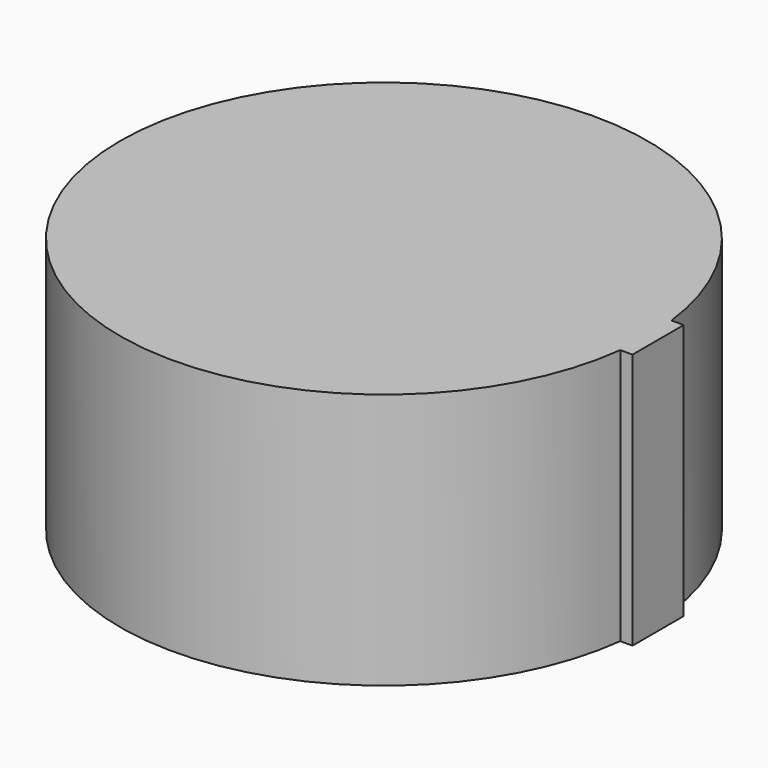
from build123d import *

# Parameters (mm, degrees)
BOX057_W          = 10
BOX057_H          = 2.5
BOX057_DEPTH      = 10
CYLINDER064_R     = 10.3
CYLINDER064_DEPTH = 10


with BuildPart() as cube056:
    # Box057 → Box057 (new body)
    with BuildSketch(Plane(origin=(85.7, 163.75, -5), x_dir=(1, 0, 0), z_dir=(0, 0, 1))):
        with Locations((5, 1.25)):
            Rectangle(BOX057_W, BOX057_H)
    extrude(amount=BOX057_DEPTH)


with BuildPart() as obj1:
    # Cylinder064 → Cylinder064 (new body)
    with BuildSketch(Plane(origin=(85, 165, -5), x_dir=(1, 0, 0), z_dir=(0, 0, 1))):
        Circle(CYLINDER064_R)
    extrude(amount=CYLINDER064_DEPTH)

    # Fusion009: union Cube056
    add(cube056.part)


with BuildPart() as obj1_1:
    # Fusion009 placement: moved
    add(obj1.part.moved(Location((6.5, 15, 0))))


solid = obj1_1.part
